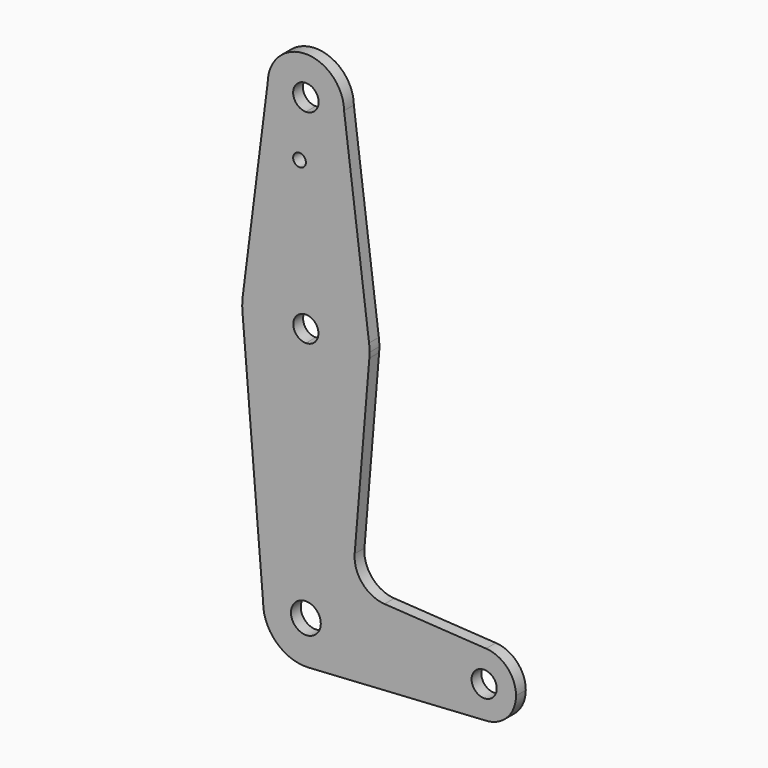
from build123d import *

# Parameters (mm, degrees)
F0_R     = 1.5875
F1_DEPTH = 3.048


with BuildPart() as f1:
    # F0 (on Front) → F1 (new body)
    with BuildSketch(Plane.XZ):
        with BuildLine():
            Line((10.6647725152, 0), (3.7160213719, 0))
            ThreePointArc((3.7160213719, 0), (-2.6276239111, -2.6276239111), (0, 3.7160213719))
            Line((0, 3.7160213719), (0, 10.6647725152))
            ThreePointArc((0, 10.6647725152), (-7.5411329653, 7.5411329653), (-10.6647725152, 0))
            ThreePointArc((-10.6647725152, 0), (-7.305470614, -7.7696506941), (0.6561387977, -10.6445692575))
            ThreePointArc((0.6561387977, -10.6445692575), (7.7696506941, -7.305470614), (10.6647725152, 0))
        make_face()
        with BuildLine():
            ThreePointArc((0, 10.6647725152), (7.5411329653, 7.5411329653), (10.6647725152, 0))
            Line((10.6647725152, 0), (36.5125, 0))
            ThreePointArc((36.5125, 0), (39.0058004719, 5.7762096351), (44.9193277792, 7.9236126663))
            Line((44.9193277792, 7.9236126663), (19.5983379784, 9.4801502654))
            ThreePointArc((19.5983379784, 9.4801502654), (14.0743523724, 12.2130483744), (12.1631177969, 18.0722574888))
            Line((12.1631177969, 18.0722574888), (15.820718629, 62.1883266174))
            ThreePointArc((15.820718629, 62.1883266174), (10.7515768623, 51.820136132), (0, 47.625))
            Line((0, 47.625), (0, 10.6647725152))
        make_face()
        with BuildLine():
            Line((36.5125, 0), (10.6647725152, 0))
            ThreePointArc((10.6647725152, 0), (7.7696506941, -7.305470614), (0.6561387977, -10.6445692575))
            Line((0.6561387977, -10.6445692575), (44.5943368921, -7.9361875678))
            ThreePointArc((44.5943368921, -7.9361875678), (38.8886048437, -5.6634609706), (36.5125, 0))
        make_face()
        with BuildLine():
            ThreePointArc((-10.6647725152, 0), (-7.5411329653, 7.5411329653), (0, 10.6647725152))
            Line((0, 10.6647725152), (0, 47.625))
            ThreePointArc((0, 47.625), (-10.7515768623, 51.820136132), (-15.820718629, 62.1883266174))
            Line((-15.820718629, 62.1883266174), (-10.6647725152, 0))
        make_face()
        with BuildLine():
            ThreePointArc((44.9193277792, 7.9236126663), (39.0058004719, 5.7762096351), (36.5125, 0))
            ThreePointArc((36.5125, 0), (38.8886048437, -5.6634609706), (44.5943368921, -7.9361875678))
            ThreePointArc((44.5943368921, -7.9361875678), (50.1134609706, -5.5613951563), (52.3875, 0))
            ThreePointArc((52.3875, 0), (50.2262096351, 5.4441995281), (44.9193277792, 7.9236126663))
        make_face()
        with BuildLine():
            ThreePointArc((47.5850315369, 0), (44.45, -3.1350315369), (41.3149684631, 0))
            ThreePointArc((41.3149684631, 0), (44.45, 3.1350315369), (47.5850315369, 0))
        make_face(mode=Mode.SUBTRACT)
        with BuildLine():
            Line((0, 60.3684013853), (0, 47.625))
            ThreePointArc((0, 47.625), (10.7515768623, 51.820136132), (15.820718629, 62.1883266174))
            ThreePointArc((15.820718629, 62.1883266174), (15.8614238521, 62.8436019634), (15.875, 63.5))
            ThreePointArc((15.875, 63.5), (15.8432780084, 64.5030787356), (15.7482388095, 65.5021486958))
            ThreePointArc((15.7482388095, 65.5021486958), (10.4936055407, 75.4121730913), (2e-09, 79.375))
            Line((2e-09, 79.375), (4e-10, 66.6315986147))
            ThreePointArc((4e-10, 66.6315986147), (2.2143746166, 65.7143746163), (3.1315986147, 63.5))
            ThreePointArc((3.1315986147, 63.5), (2.2143746164, 61.2856253836), (0, 60.3684013853))
        make_face()
        with BuildLine():
            ThreePointArc((-15.820718629, 62.1883266174), (-10.7515768623, 51.820136132), (0, 47.625))
            Line((0, 47.625), (0, 60.3684013853))
            ThreePointArc((0, 60.3684013853), (-3.1315986147, 63.5000000002), (4e-10, 66.6315986147))
            Line((4e-10, 66.6315986147), (2e-09, 79.375))
            ThreePointArc((2e-09, 79.375), (-10.4935136222, 75.4122540629), (-15.7482079097, 65.5023917284))
            ThreePointArc((-15.7482079097, 65.5023917284), (-15.8712015169, 63.8472569789), (-15.820718629, 62.1883266174))
        make_face()
        with BuildLine():
            Line((-9.5237206311, 114.4561096278), (-15.7482079097, 65.5023917284))
            ThreePointArc((-15.7482079097, 65.5023917284), (-10.4935136222, 75.4122540629), (2e-09, 79.375))
            Line((2e-09, 79.375), (4.7e-09, 100.0252))
            Line((4.7e-09, 100.0252), (5.3e-09, 104.775))
            ThreePointArc((5.3e-09, 104.775), (-6.7901608611, 107.6202290165), (-9.5237206311, 114.4561096278))
        make_face()
        with Locations((-1.5874999953, 100.0252)):
            Circle(F0_R, mode=Mode.SUBTRACT)
        with BuildLine():
            Line((4.7e-09, 100.0252), (2e-09, 79.375))
            ThreePointArc((2e-09, 79.375), (10.4936055407, 75.4121730913), (15.7482388095, 65.5021486958))
            Line((15.7482388095, 65.5021486958), (9.5236041006, 114.4630645868))
            ThreePointArc((9.5236041006, 114.4630645868), (9.5246510237, 114.3815352807), (9.5250000066, 114.3))
            ThreePointArc((9.5250000066, 114.3), (6.7351920969, 107.5648079088), (5.3e-09, 104.775))
            Line((5.3e-09, 104.775), (4.7e-09, 100.0252))
        make_face()
        with BuildLine():
            ThreePointArc((9.5236041006, 114.4630645868), (-0.0034779611, 123.824999365), (-9.5237206311, 114.4561096278))
            ThreePointArc((-9.5237206311, 114.4561096278), (-6.7901608611, 107.6202290165), (5.3e-09, 104.775))
            ThreePointArc((5.3e-09, 104.775), (6.7351920969, 107.5648079088), (9.5250000066, 114.3))
            ThreePointArc((9.5250000066, 114.3), (9.5246510237, 114.3815352807), (9.5236041006, 114.4630645868))
        make_face()
        with BuildLine():
            ThreePointArc((3.1750000066, 114.3), (2.2450640367, 112.0549359696), (6.1e-09, 111.125))
            ThreePointArc((6.1e-09, 111.125), (-2.2450640236, 116.5450640304), (3.1750000066, 114.3))
        make_face(mode=Mode.SUBTRACT)
        with BuildLine():
            ThreePointArc((0, 3.7160213719), (2.6276239111, 2.6276239111), (3.7160213719, 0))
            Line((3.7160213719, 0), (10.6647725152, 0))
            ThreePointArc((10.6647725152, 0), (7.5411329653, 7.5411329653), (0, 10.6647725152))
            Line((0, 10.6647725152), (0, 3.7160213719))
        make_face()
    extrude(amount=F1_DEPTH)


solid = f1.part
